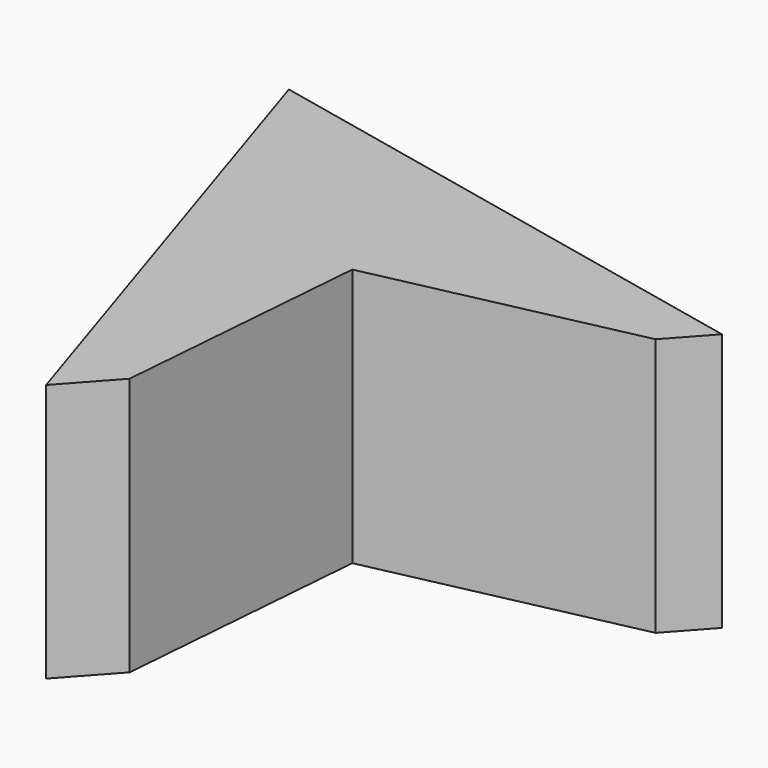
from build123d import *

# Parameters (mm, degrees)
F1_DEPTH = 101.6


with BuildPart() as f1:
    # F0 (on Top) → F1 (new body)
    with BuildSketch(Plane.XY):
        Polygon((-56.801282, 53.079681), (-57.730989, 74.431246), (-90.009972, 81.356727), (-80.881791, 53.079681), align=None)
        with BuildLine():
            Line((36.024634, 53.079681), (41.786546, 53.079681))
            ThreePointArc((41.786546, 53.079681), (38.90559, 53.181468), (36.024634, 53.079681))
        make_face()
        with BuildLine():
            ThreePointArc((36.024634, 53.079681), (38.90559, 53.181468), (41.786546, 53.079681))
            Line((41.786546, 53.079681), (-57.730989, 74.431246))
            Line((-57.730989, 74.431246), (-56.801282, 53.079681))
            Line((-56.801282, 53.079681), (36.024634, 53.079681))
        make_face()
        with BuildLine():
            Line((0, 0), (41.786546, 53.079681))
            Line((41.786546, 53.079681), (36.024634, 53.079681))
            ThreePointArc((36.024634, 53.079681), (5.128497, 35.283956), (0, 0))
        make_face()
        with BuildLine():
            Line((-53.222388, -29.112805), (0, 0))
            ThreePointArc((0, 0), (-34.621498, 0.087584), (-53.222388, -29.112805))
        make_face()
        Polygon((101.627543, 21.966669), (115.461978, 37.272559), (41.786546, 53.079681), (0, 0), align=None)
        Polygon((-25.452006, -118.629286), (-8.044833, -99.370656), (0, 0), (-53.222388, -29.112805), (-56.801282, 53.079681), (-80.881791, 53.079681), align=None)
        with BuildLine():
            ThreePointArc((-53.222388, -29.112805), (-34.621498, 0.087584), (0, 0))
            Line((0, 0), (-56.801282, 53.079681))
            Line((-56.801282, 53.079681), (-53.222388, -29.112805))
        make_face()
        with BuildLine():
            Line((-56.801282, 53.079681), (0, 0))
            ThreePointArc((0, 0), (5.128497, 35.283956), (36.024634, 53.079681))
            Line((36.024634, 53.079681), (-56.801282, 53.079681))
        make_face()
    extrude(amount=F1_DEPTH)


solid = f1.part
